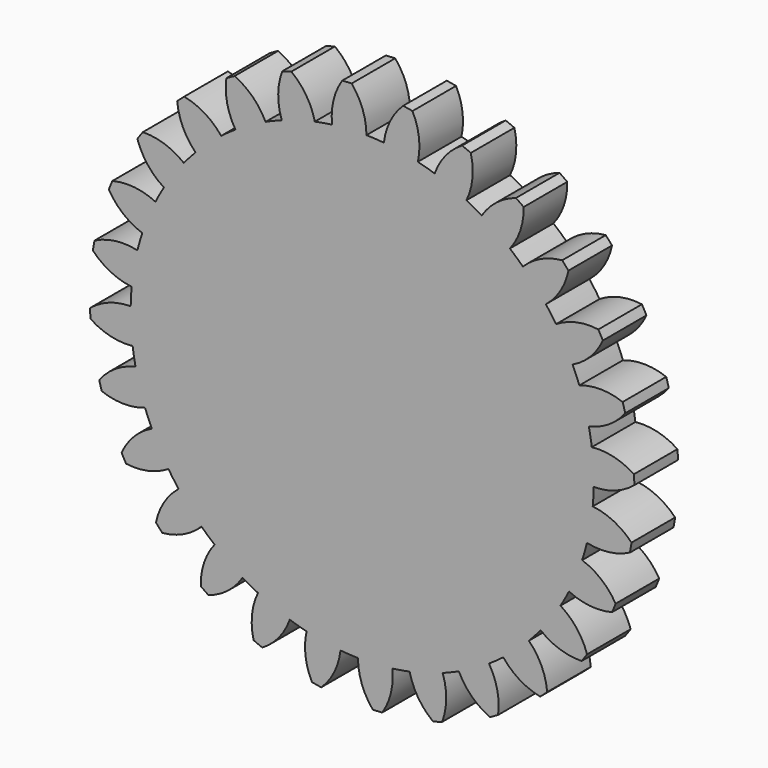
from build123d import *

# Parameters (mm, degrees)
F0_R     = 25
F1_DEPTH = 15
F2_COUNT = 28
F3_DEPTH = 20
F4_W     = 16
F4_H     = 20.301032
F5_DEPTH = 15


with BuildPart() as f1:
    # F0 (on Front) → F1 (new body)
    with BuildSketch(Plane.XZ):
        with BuildLine():
            ThreePointArc((-8.294858, 63.208052), (-42.043224, -47.921079), (63.75, 0))
            ThreePointArc((63.75, 0), (45.488531, 44.663811), (1.166281, 63.739331))
            ThreePointArc((1.166281, 63.739331), (-3.574174, 63.649727), (-8.294858, 63.208052))
        make_face()
        Circle(F0_R, mode=Mode.SUBTRACT)
        with BuildLine():
            ThreePointArc((-8.294858, 63.208052), (-3.574174, 63.649727), (1.166281, 63.739331))
            ThreePointArc((1.166281, 63.739331), (0.112549, 69.699138), (-2.908271, 74.943592))
            ThreePointArc((-2.908271, 74.943592), (-4.20491, 74.882032), (-5.50029, 74.79804))
            ThreePointArc((-5.50029, 74.79804), (-7.914978, 69.248362), (-8.294858, 63.208052))
        make_face()
        Circle(F0_R)
    extrude(amount=F1_DEPTH)



with BuildPart() as f2_1:
    # F2: instance of F1
    add(f1.part.rotate(Axis((0, 0, 0), (0, 1, 0)), 1 * 360 / F2_COUNT))


with BuildPart() as f2_2:
    # F2: instance of F1
    add(f1.part.rotate(Axis((0, 0, 0), (0, 1, 0)), 2 * 360 / F2_COUNT))


with BuildPart() as f2_3:
    # F2: instance of F1
    add(f1.part.rotate(Axis((0, 0, 0), (0, 1, 0)), 3 * 360 / F2_COUNT))


with BuildPart() as f2_4:
    # F2: instance of F1
    add(f1.part.rotate(Axis((0, 0, 0), (0, 1, 0)), 4 * 360 / F2_COUNT))


with BuildPart() as f2_5:
    # F2: instance of F1
    add(f1.part.rotate(Axis((0, 0, 0), (0, 1, 0)), 5 * 360 / F2_COUNT))


with BuildPart() as f2_6:
    # F2: instance of F1
    add(f1.part.rotate(Axis((0, 0, 0), (0, 1, 0)), 6 * 360 / F2_COUNT))


with BuildPart() as f2_7:
    # F2: instance of F1
    add(f1.part.rotate(Axis((0, 0, 0), (0, 1, 0)), 7 * 360 / F2_COUNT))


with BuildPart() as f2_8:
    # F2: instance of F1
    add(f1.part.rotate(Axis((0, 0, 0), (0, 1, 0)), 8 * 360 / F2_COUNT))


with BuildPart() as f2_9:
    # F2: instance of F1
    add(f1.part.rotate(Axis((0, 0, 0), (0, 1, 0)), 9 * 360 / F2_COUNT))


with BuildPart() as f2_10:
    # F2: instance of F1
    add(f1.part.rotate(Axis((0, 0, 0), (0, 1, 0)), 10 * 360 / F2_COUNT))


with BuildPart() as f2_11:
    # F2: instance of F1
    add(f1.part.rotate(Axis((0, 0, 0), (0, 1, 0)), 11 * 360 / F2_COUNT))


with BuildPart() as f2_12:
    # F2: instance of F1
    add(f1.part.rotate(Axis((0, 0, 0), (0, 1, 0)), 12 * 360 / F2_COUNT))


with BuildPart() as f2_13:
    # F2: instance of F1
    add(f1.part.rotate(Axis((0, 0, 0), (0, 1, 0)), 13 * 360 / F2_COUNT))


with BuildPart() as f2_14:
    # F2: instance of F1
    add(f1.part.rotate(Axis((0, 0, 0), (0, 1, 0)), 14 * 360 / F2_COUNT))


with BuildPart() as f2_15:
    # F2: instance of F1
    add(f1.part.rotate(Axis((0, 0, 0), (0, 1, 0)), 15 * 360 / F2_COUNT))


with BuildPart() as f2_16:
    # F2: instance of F1
    add(f1.part.rotate(Axis((0, 0, 0), (0, 1, 0)), 16 * 360 / F2_COUNT))


with BuildPart() as f2_17:
    # F2: instance of F1
    add(f1.part.rotate(Axis((0, 0, 0), (0, 1, 0)), 17 * 360 / F2_COUNT))


with BuildPart() as f2_18:
    # F2: instance of F1
    add(f1.part.rotate(Axis((0, 0, 0), (0, 1, 0)), 18 * 360 / F2_COUNT))


with BuildPart() as f2_19:
    # F2: instance of F1
    add(f1.part.rotate(Axis((0, 0, 0), (0, 1, 0)), 19 * 360 / F2_COUNT))


with BuildPart() as f2_20:
    # F2: instance of F1
    add(f1.part.rotate(Axis((0, 0, 0), (0, 1, 0)), 20 * 360 / F2_COUNT))


with BuildPart() as f2_21:
    # F2: instance of F1
    add(f1.part.rotate(Axis((0, 0, 0), (0, 1, 0)), 21 * 360 / F2_COUNT))


with BuildPart() as f2_22:
    # F2: instance of F1
    add(f1.part.rotate(Axis((0, 0, 0), (0, 1, 0)), 22 * 360 / F2_COUNT))


with BuildPart() as f2_23:
    # F2: instance of F1
    add(f1.part.rotate(Axis((0, 0, 0), (0, 1, 0)), 23 * 360 / F2_COUNT))


with BuildPart() as f2_24:
    # F2: instance of F1
    add(f1.part.rotate(Axis((0, 0, 0), (0, 1, 0)), 24 * 360 / F2_COUNT))


with BuildPart() as f2_25:
    # F2: instance of F1
    add(f1.part.rotate(Axis((0, 0, 0), (0, 1, 0)), 25 * 360 / F2_COUNT))


with BuildPart() as f2_26:
    # F2: instance of F1
    add(f1.part.rotate(Axis((0, 0, 0), (0, 1, 0)), 26 * 360 / F2_COUNT))


with BuildPart() as f2_27:
    # F2: instance of F1
    add(f1.part.rotate(Axis((0, 0, 0), (0, 1, 0)), 27 * 360 / F2_COUNT))


with BuildPart() as f1_1:
    add(f1.part)

    add(f2_1.part)  # F3 merges F2_1

    add(f2_2.part)  # F3 merges F2_2

    add(f2_3.part)  # F3 merges F2_3

    add(f2_4.part)  # F3 merges F2_4

    add(f2_5.part)  # F3 merges F2_5

    add(f2_6.part)  # F3 merges F2_6

    add(f2_7.part)  # F3 merges F2_7

    add(f2_8.part)  # F3 merges F2_8

    add(f2_9.part)  # F3 merges F2_9

    add(f2_10.part)  # F3 merges F2_10

    add(f2_11.part)  # F3 merges F2_11

    add(f2_12.part)  # F3 merges F2_12

    add(f2_13.part)  # F3 merges F2_13

    add(f2_14.part)  # F3 merges F2_14

    add(f2_15.part)  # F3 merges F2_15

    add(f2_16.part)  # F3 merges F2_16

    add(f2_17.part)  # F3 merges F2_17

    add(f2_18.part)  # F3 merges F2_18

    add(f2_19.part)  # F3 merges F2_19

    add(f2_20.part)  # F3 merges F2_20

    add(f2_21.part)  # F3 merges F2_21

    add(f2_22.part)  # F3 merges F2_22

    add(f2_23.part)  # F3 merges F2_23

    add(f2_24.part)  # F3 merges F2_24

    add(f2_25.part)  # F3 merges F2_25

    add(f2_26.part)  # F3 merges F2_26

    add(f2_27.part)  # F3 merges F2_27
    # F0 (on Front) → F3 (join)
    with BuildSketch(Plane.XZ):
        Circle(F0_R)
    extrude(amount=-F3_DEPTH)

    # F4 (on face) → F5 (cut)
    with BuildSketch(Plane(origin=(0, 20, 0), x_dir=(-1, 0, 0), z_dir=(0, 1, 0))):
        with Locations((0, 29.150516)):
            Rectangle(F4_W, F4_H)
    extrude(amount=-F5_DEPTH, mode=Mode.SUBTRACT)


solid = f1_1.part
